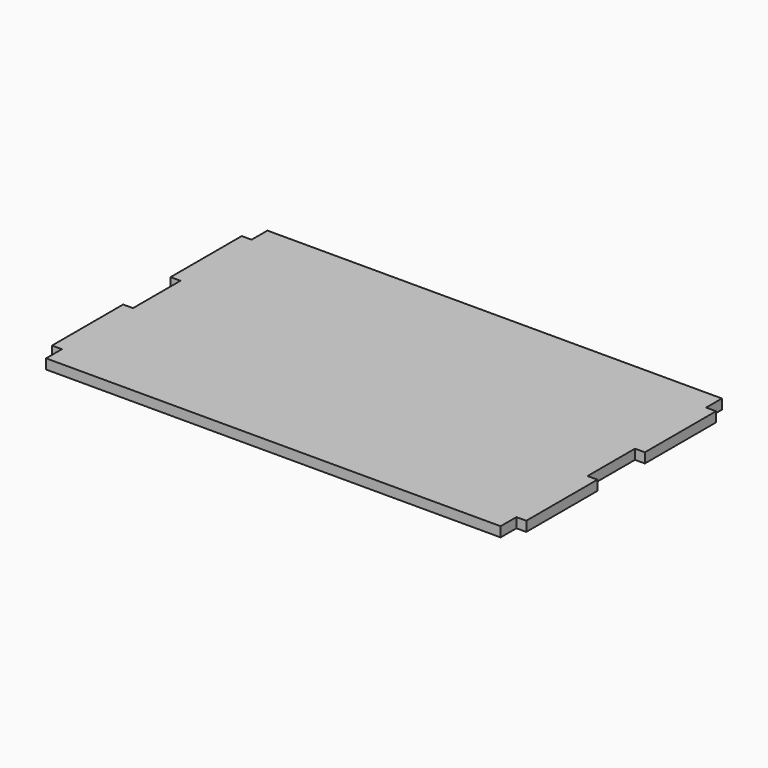
from build123d import *

# Parameters (mm, degrees)
F1_DEPTH = 12.7


with BuildPart() as f1:
    # F0 (on Top) → F1 (new body)
    with BuildSketch(Plane.XY):
        Polygon((292.1, 177.8), (-292.1, 177.8), (-292.1, 152.4), (-304.8, 152.4), (-304.8, 38.1), (-292.1, 38.1), (-292.1, -38.1), (-304.8, -38.1), (-304.8, -152.4), (-292.1, -152.4), (-292.1, -177.8), (292.1, -177.8), (292.1, -152.4), (304.8, -152.4), (304.8, -38.1), (292.1, -38.1), (292.1, 38.1), (304.8, 38.1), (304.8, 152.4), (292.1, 152.4), align=None)
    extrude(amount=F1_DEPTH)


solid = f1.part
